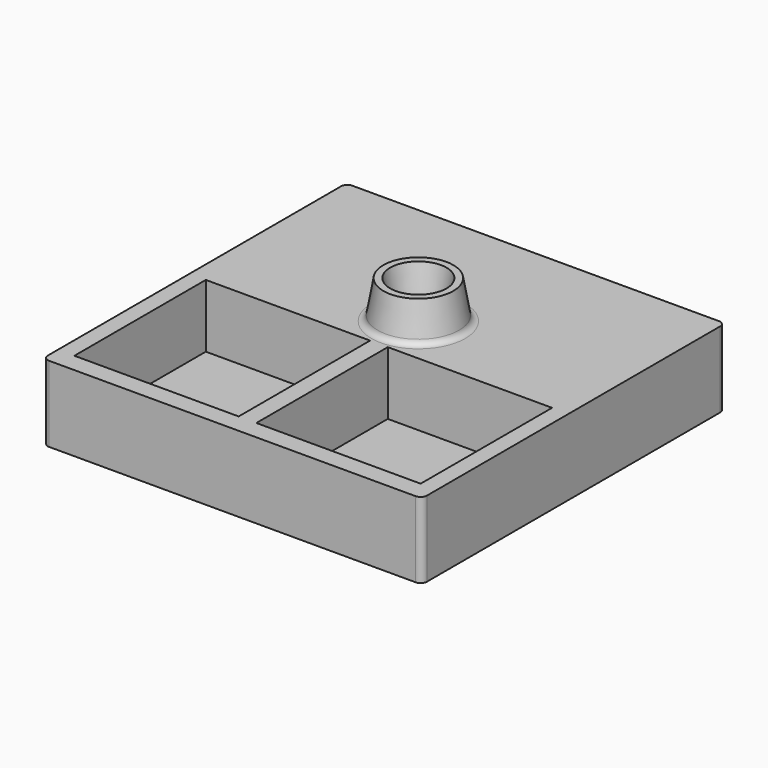
from build123d import *

# Parameters (mm, degrees)
F0_W     = 30
F0_H     = 30
F0_W_2   = 13
F0_H_2   = 13
F0_R     = 1.9
F1_DEPTH = 5
F2_R     = 3.3
F2_R_2   = 1.7
F3_DEPTH = 3
F3_TAPER = 10
F4_W     = 30
F4_H     = 30
F5_DEPTH = 1
F6_R     = 0.5


with BuildPart() as f1:
    # F0 (on Top) → F1 (new body)
    with BuildSketch(Plane.XY):
        Rectangle(F0_W, F0_H)
        with Locations((-7.2, -7)):
            Rectangle(F0_W_2, F0_H_2, mode=Mode.SUBTRACT)
        with Locations((7.2, -7)):
            Rectangle(F0_W_2, F0_H_2, mode=Mode.SUBTRACT)
        with Locations((0, 3.4)):
            Circle(F0_R, mode=Mode.SUBTRACT)
    extrude(amount=F1_DEPTH)

    # F2 (on face) → F3 (join)
    with BuildSketch(Plane.XY.offset(5)):
        with Locations((0, 3.4)):
            Circle(F2_R)
        with Locations((0, 3.4)):
            Circle(F2_R_2, mode=Mode.SUBTRACT)
    extrude(amount=F3_DEPTH, taper=F3_TAPER)

    # F4 (on face) → F5 (join)
    with BuildSketch(Plane(origin=(0, 0, 0), x_dir=(1, 0, 0), z_dir=(0, 0, -1))):
        Rectangle(F4_W, F4_H)
    extrude(amount=F5_DEPTH)

    # F6
    f6_edges = [f1.edges().sort_by_distance(p)[0] for p in [
        (-15, -15, 2),
        (15, -15, 2),
        (15, 15, 2),
        (-15, 15, 2),
        (-3.3, 3.4, 5),
    ]]
    fillet(f6_edges, radius=F6_R)


solid = f1.part
